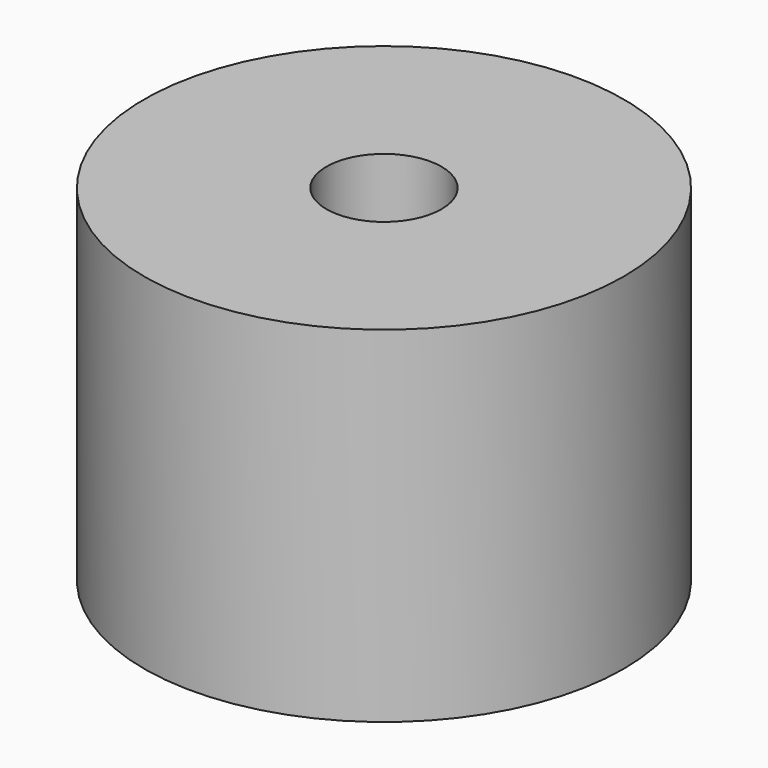
from build123d import *

# Parameters (mm, degrees)
CYLINDER001_R     = 3
CYLINDER001_DEPTH = 18
CYLINDER_R        = 12.5
CYLINDER_DEPTH    = 18


with BuildPart() as cylinder001:
    # Cylinder001 → Cylinder001 (new body)
    with BuildSketch(Plane.XY):
        Circle(CYLINDER001_R)
    extrude(amount=CYLINDER001_DEPTH)


with BuildPart() as hole_drill:
    # Cylinder → Cylinder (new body)
    with BuildSketch(Plane.XY):
        Circle(CYLINDER_R)
    extrude(amount=CYLINDER_DEPTH)

    # Cut: cut Cylinder001
    add(cylinder001.part, mode=Mode.SUBTRACT)


solid = hole_drill.part
